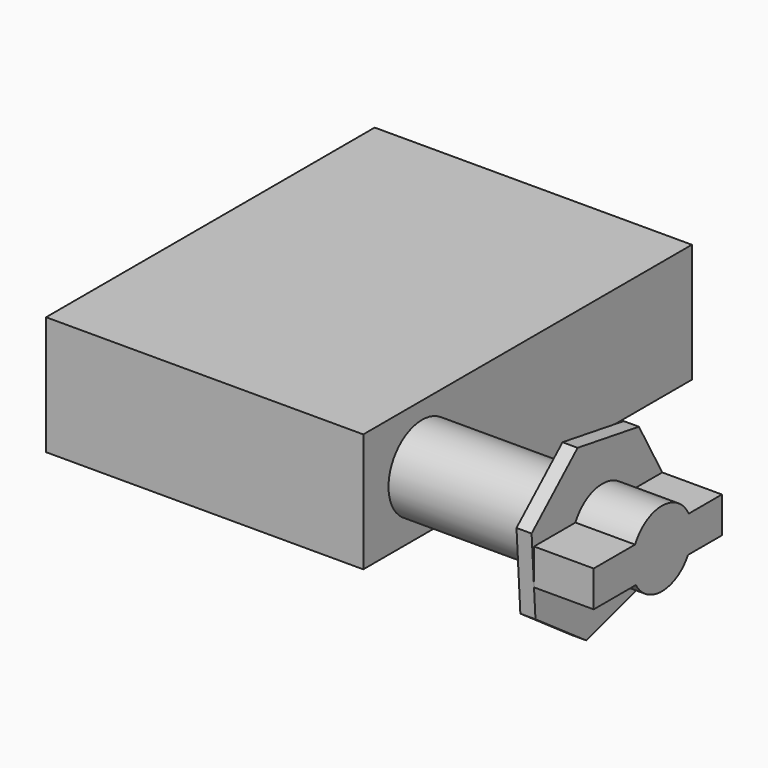
from build123d import *

# Parameters (mm, degrees)
F0_W     = 53.3547988161
F0_H     = 19.9866779149
F1_DEPTH = 69.088
F2_R     = 7.0602732338
F3_DEPTH = 25.4
F5_DEPTH = 2.54
F7_DEPTH = 10.033


with BuildPart() as f1:
    # F0 (on Front) → F1 (new body)
    with BuildSketch(Plane.XZ):
        with Locations((-13.8097074814, 18.6486560851)):
            Rectangle(F0_W, F0_H)
    extrude(amount=F1_DEPTH)

    # F2 (on face) → F3 (join)
    with BuildSketch(Plane.YZ.offset(12.8676919267)):
        with Locations((-56.7260272801, 18.7238119543)):
            Circle(F2_R)
    extrude(amount=F3_DEPTH)

    # F4 (on face) → F5 (join)
    with BuildSketch(Plane.YZ.offset(38.2676919267)):
        Polygon((-46.0683374544, 29.5102504033), (-58.9465306262, 31.6174495083), (-68.6234273353, 22.8626898016), (-67.812126987, 9.838483907), (-57.123555291, 2.3523245085), (-44.6064247416, 6.041442323), (-39.6863899454, 18.1278563919), align=None)
    extrude(amount=F5_DEPTH)

    # F6 (on face) → F7 (join)
    with BuildSketch(Plane.YZ.offset(40.8076919267)):
        with BuildLine():
            ThreePointArc((-59.2542665191, 14.6833357248), (-53.7665337324, 11.5151886184), (-48.2788009457, 14.6833357248))
            Line((-48.2788009457, 14.6833357248), (-59.2542665191, 14.6833357248))
        make_face()
        with BuildLine():
            ThreePointArc((-48.1241693804, 20.7364859485), (-47.6057251813, 19.3354981023), (-47.4296488155, 17.8520735353))
            ThreePointArc((-47.4296488155, 17.8520735353), (-47.6456170701, 16.211802319), (-48.2788009457, 14.6833357248))
            Line((-48.2788009457, 14.6833357248), (-41.1490116824, 14.6833357248))
            Line((-41.1490116824, 14.6833357248), (-41.1490116824, 20.7364859485))
            Line((-41.1490116824, 20.7364859485), (-48.1241693804, 20.7364859485))
        make_face()
        with BuildLine():
            ThreePointArc((-59.2542665191, 14.6833357248), (-60.1013520003, 17.690246581), (-59.4088980844, 20.7364859485))
            Line((-59.4088980844, 20.7364859485), (-68.1139211999, 20.7364859485))
            Line((-68.1139211999, 20.7364859485), (-68.1139211999, 14.6833357248))
            Line((-68.1139211999, 14.6833357248), (-59.2542665191, 14.6833357248))
        make_face()
        with BuildLine():
            Line((-59.4088980844, 20.7364859485), (-48.1241693804, 20.7364859485))
            ThreePointArc((-48.1241693804, 20.7364859485), (-53.7665337324, 24.1889584522), (-59.4088980844, 20.7364859485))
        make_face()
        with BuildLine():
            ThreePointArc((-48.2788009457, 14.6833357248), (-47.6456170701, 16.211802319), (-47.4296488155, 17.8520735353))
            ThreePointArc((-47.4296488155, 17.8520735353), (-47.6057251813, 19.3354981023), (-48.1241693804, 20.7364859485))
            Line((-48.1241693804, 20.7364859485), (-59.4088980844, 20.7364859485))
            ThreePointArc((-59.4088980844, 20.7364859485), (-60.1013520003, 17.690246581), (-59.2542665191, 14.6833357248))
            Line((-59.2542665191, 14.6833357248), (-48.2788009457, 14.6833357248))
        make_face()
    extrude(amount=F7_DEPTH)


solid = f1.part
